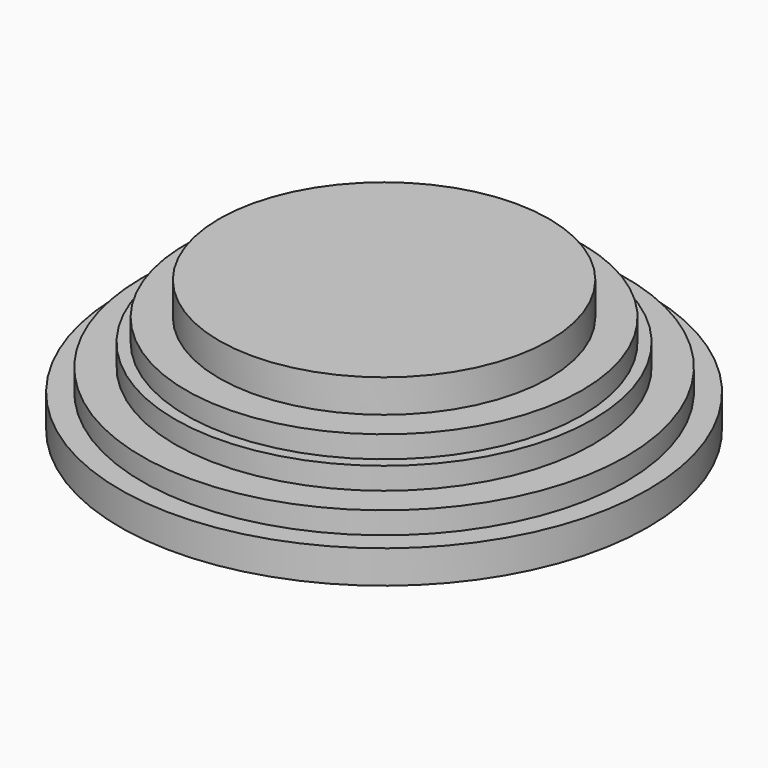
from build123d import *

# Parameters (mm, degrees)
SKETCH001_R      = 9
EXTRUDE001_DEPTH = 4.5
SKETCH002_R      = 9.5
EXTRUDE002_DEPTH = 3.5
SKETCH003_R      = 11
EXTRUDE003_DEPTH = 2.5
SKETCH004_R      = 12
EXTRUDE004_DEPTH = 1.5
SKETCH_R         = 7.5
EXTRUDE_DEPTH    = 6


with BuildPart() as extrude001:
    # Sketch001 → Extrude001 (new body)
    with BuildSketch(Plane.XY):
        Circle(SKETCH001_R)
    extrude(amount=EXTRUDE001_DEPTH)


with BuildPart() as extrude002:
    # Sketch002 → Extrude002 (new body)
    with BuildSketch(Plane.XY):
        Circle(SKETCH002_R)
    extrude(amount=EXTRUDE002_DEPTH)


with BuildPart() as extrude003:
    # Sketch003 → Extrude003 (new body)
    with BuildSketch(Plane.XY):
        Circle(SKETCH003_R)
    extrude(amount=EXTRUDE003_DEPTH)


with BuildPart() as extrude004:
    # Sketch004 → Extrude004 (new body)
    with BuildSketch(Plane.XY):
        Circle(SKETCH004_R)
    extrude(amount=EXTRUDE004_DEPTH)


with BuildPart() as fusion:
    # Sketch → Extrude (new body)
    with BuildSketch(Plane.XY):
        Circle(SKETCH_R)
    extrude(amount=EXTRUDE_DEPTH)

    # Fusion: union Extrude001, Extrude002, Extrude003, Extrude004
    add(extrude001.part)
    add(extrude002.part)
    add(extrude003.part)
    add(extrude004.part)


solid = fusion.part
